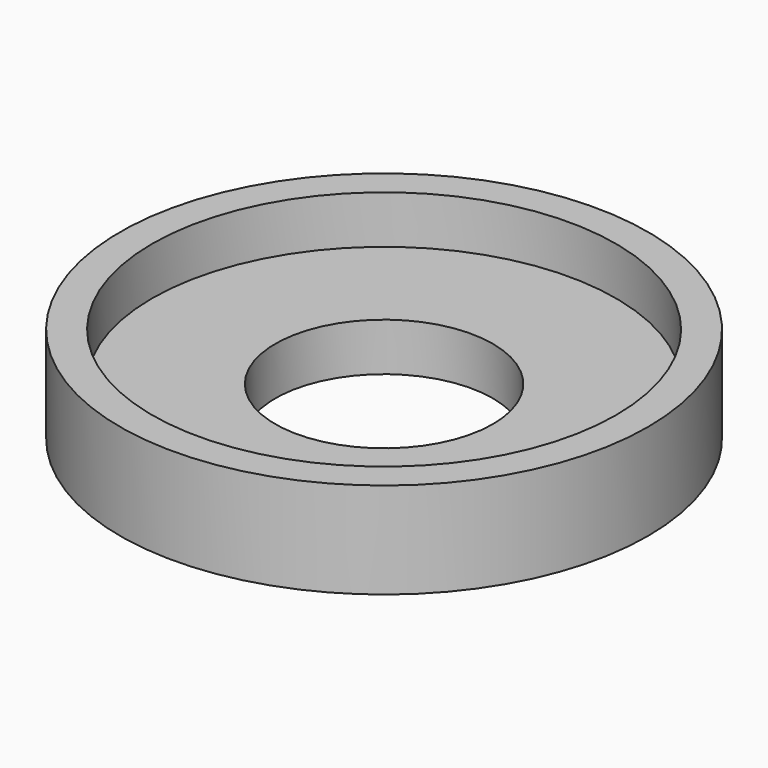
from build123d import *

# Parameters (mm, degrees)
F2_R     = 3.4
F3_DEPTH = 1.501


with BuildPart() as f1:
    # F0 (on Front) → F1 (revolve)
    with BuildSketch(Plane.XZ):
        Polygon((0, 1.5), (0, 0), (8.25, 0), (8.25, 3), (7.25, 3), (7.25, 1.5), align=None)
    revolve(axis=Axis((0, 0, 0.75), (0, 0, -1)))

    # F2 (on face) → F3 (cut, through all)
    with BuildSketch(Plane.XY.offset(1.5)):
        Circle(F2_R)
    extrude(amount=-F3_DEPTH, mode=Mode.SUBTRACT)


solid = f1.part
